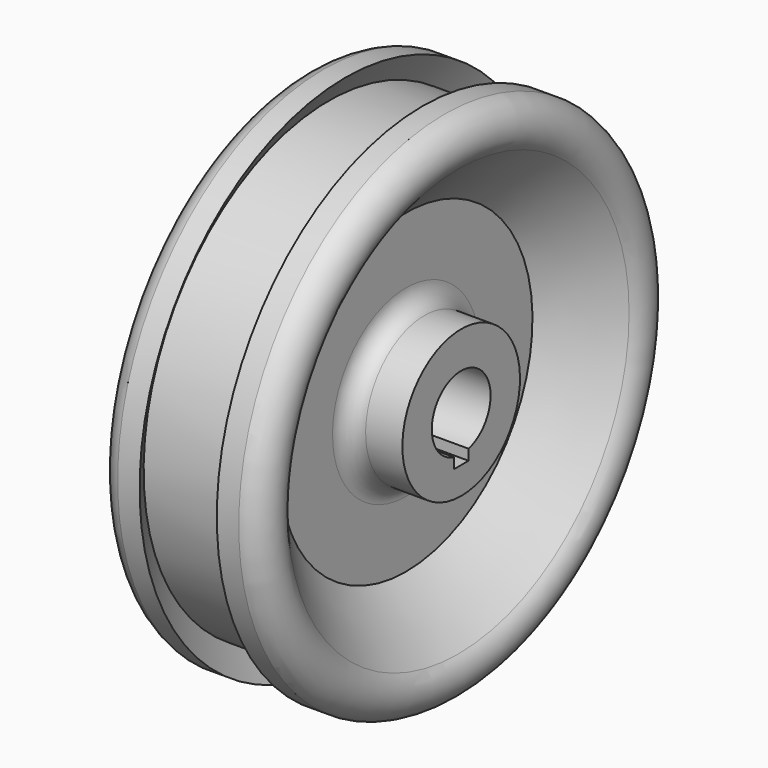
from build123d import *

# Parameters (mm, degrees)
F2_W     = 5
F2_H     = 3
F3_DEPTH = 53.1


with BuildPart() as f1:
    # F0 (on Front) → F1 (revolve)
    with BuildSketch(Plane.XZ):
        with BuildLine():
            Line((0, -10), (-42, -10))
            Line((-42, -10), (-42, -20))
            Line((-42, -20), (-32, -20))
            ThreePointArc((-32, -20), (-28.464466, -21.464466), (-27, -25))
            Line((-27, -25), (-27, -43))
            Line((-27, -43), (-41.209174, -58.097248))
            ThreePointArc((-41.209174, -58.097248), (-42.82531, -65.141873), (-37.473933, -70))
            Line((-37.473933, -70), (-31.5, -70))
            Line((-31.5, -70), (-36, -63))
            Line((-36, -63), (-6, -63))
            Line((-6, -63), (-10.5, -70))
            Line((-10.5, -70), (-4.526067, -70))
            ThreePointArc((-4.526067, -70), (0.82531, -65.141873), (-0.790826, -58.097248))
            Line((-0.790826, -58.097248), (-15, -43))
            Line((-15, -43), (-15, -25))
            ThreePointArc((-15, -25), (-13.535534, -21.464466), (-10, -20))
            Line((-10, -20), (0, -20))
            Line((0, -20), (0, -10))
        make_face()
    revolve(axis=Axis((-21, 0, 0), (-1, 0, 0)))

    # F2 (on Right) → F3 (cut)
    with BuildSketch(Plane.YZ):
        with Locations((0, -11.075807)):
            Rectangle(F2_W, F2_H)
    extrude(amount=-F3_DEPTH, mode=Mode.SUBTRACT)


solid = f1.part
